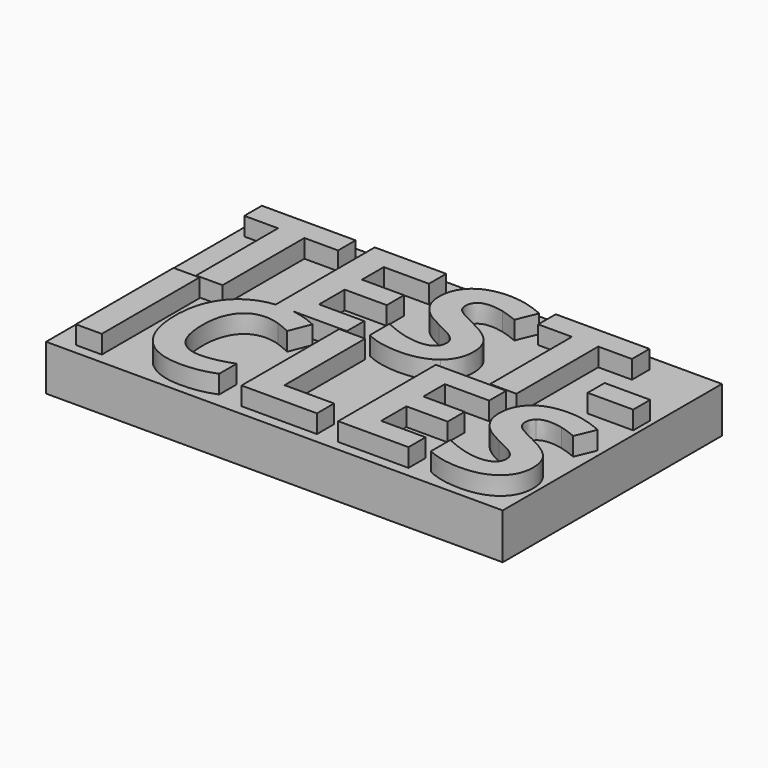
from build123d import *

# Parameters (mm, degrees)
F0_W     = 50
F0_H     = 30
F1_DEPTH = 5
F2_W     = 4.9925617376
F2_H     = 2.3237131806
F2_W_2   = 2.8359868883
F2_H_2   = 13.3721610864
F3_DEPTH = 2


with BuildPart() as f1:
    # F0 (on Top) → F1 (new body)
    with BuildSketch(Plane.XY):
        with Locations((-4.7771148384, -0.2846198264)):
            Rectangle(F0_W, F0_H)
    extrude(amount=F1_DEPTH)

    # F2 (on face) → F3 (join)
    with BuildSketch(Plane.XY.offset(5)):
        Polygon((-25.0170168033, -0.6825822399), (-22.1339462886, -0.6825822399), (-22.1339462886, 10.5134903575), (-18.4445681273, 10.5134903575), (-18.4445681273, 12.9115861624), (-28.7093702695, 12.9115861624), (-28.7093702695, 10.5134903575), (-25.0170168033, 10.5134903575), align=None)
        with BuildLine():
            Line((-14.4154131951, -0.6825822399), (-8.5249013615, -0.6825822399))
            Line((-8.5249013615, -0.6825822399), (-8.5249013615, 1.6976617351))
            Line((-8.5249013615, 1.6976617351), (-13.4698582195, 1.6976617351))
            Line((-13.4698582195, 1.6976617351), (-13.4698582195, 5.2025709883))
            Line((-13.4698582195, 5.2025709883), (-8.8670614329, 5.2025709883))
            Line((-8.8670614329, 5.2025709883), (-8.8670614329, 7.5649631335))
            Line((-8.8670614329, 7.5649631335), (-13.4698582195, 7.5649631335))
            Line((-13.4698582195, 7.5649631335), (-13.4698582195, 10.5491940172))
            Line((-13.4698582195, 10.5491940172), (-8.5249013615, 10.5491940172))
            Line((-8.5249013615, 10.5491940172), (-8.5249013615, 12.9115861624))
            Line((-8.5249013615, 12.9115861624), (-16.3529287343, 12.9115861624))
            Line((-16.3529287343, 12.9115861624), (-16.3529287343, -0.6480378607))
            add(Edge.make_bspline(
                [(-16.3529287343, -0.6480378607), (-15.9510590435, -0.6064876485), (-15.5248850255, -0.6064876485)],
                knots=[0.7770059135, 0.7770059135, 0.7770059135, 1, 1, 1], degree=2))
            add(Edge.make_bspline(
                [(-15.5248850255, -0.6064876485), (-14.9709788021, -0.6064876485), (-14.4154131951, -0.6825822399)],
                knots=[0, 0, 0, 0.2845995164, 0.2845995164, 0.2845995164], degree=2))
        make_face()
        with BuildLine():
            add(Edge.make_bspline(
                [(-14.4154131951, -0.6825822399), (-13.0188826987, -0.8738619307), (-11.6118669969, -1.5459631811)],
                knots=[0.2845995164, 0.2845995164, 0.2845995164, 1, 1, 1], degree=2))
            Line((-14.4154131951, -0.6825822399), (-16.3529287343, -0.6825822399))
            Line((-16.3529287343, -0.6825822399), (-16.3529287343, -0.6480378607))
            add(Edge.make_bspline(
                [(-18.8584134732, -1.4420647967), (-17.7532130694, -0.7928164113), (-16.3529287343, -0.6480378607)],
                knots=[0, 0, 0, 0.7770059135, 0.7770059135, 0.7770059135], degree=2))
            add(Edge.make_bspline(
                [(-21.0402795467, -3.8463612144), (-20.2807969899, -2.2776419449), (-18.8584134732, -1.4420647967)],
                knots=[0, 0, 0, 1, 1, 1], degree=2))
            add(Edge.make_bspline(
                [(-21.7997621035, -7.5018283181), (-21.7997621035, -5.4150804839), (-21.0402795467, -3.8463612144)],
                knots=[0, 0, 0, 1, 1, 1], degree=2))
            add(Edge.make_bspline(
                [(-20.2544565544, -12.5826056536), (-21.7997621035, -10.8119430453), (-21.7997621035, -7.5018283181)],
                knots=[0, 0, 0, 1, 1, 1], degree=2))
            add(Edge.make_bspline(
                [(-15.7912160955, -14.3532682619), (-18.7091510054, -14.3532682619), (-20.2544565544, -12.5826056536)],
                knots=[0, 0, 0, 1, 1, 1], degree=2))
            add(Edge.make_bspline(
                [(-12.1152619864, -13.665490224), (-13.7600758473, -14.3532682619), (-15.7912160955, -14.3532682619)],
                knots=[0, 0, 0, 1, 1, 1], degree=2))
            Line((-12.1152619864, -13.665490224), (-12.1152619864, -11.2889975993))
            add(Edge.make_bspline(
                [(-15.5248850255, -11.9914092125), (-14.117135084, -11.9914092125), (-12.1152619864, -11.2889975993)],
                knots=[0, 0, 0, 1, 1, 1], degree=2))
            add(Edge.make_bspline(
                [(-18.8818271936, -7.5193886084), (-18.8818271936, -11.9914092125), (-15.5248850255, -11.9914092125)],
                knots=[0, 0, 0, 1, 1, 1], degree=2))
            add(Edge.make_bspline(
                [(-18.0038126771, -4.1682998704), (-18.8818271936, -5.371179758), (-18.8818271936, -7.5193886084)],
                knots=[0, 0, 0, 1, 1, 1], degree=2))
            add(Edge.make_bspline(
                [(-15.5248850255, -2.9654199828), (-17.1257981606, -2.9654199828), (-18.0038126771, -4.1682998704)],
                knots=[0, 0, 0, 1, 1, 1], degree=2))
            add(Edge.make_bspline(
                [(-14.0351870625, -3.2302876953), (-14.7932062617, -2.9654199828), (-15.5248850255, -2.9654199828)],
                knots=[0, 0, 0, 1, 1, 1], degree=2))
            add(Edge.make_bspline(
                [(-12.5250020941, -3.8522146445), (-13.2771678632, -3.4951554078), (-14.0351870625, -3.2302876953)],
                knots=[0, 0, 0, 1, 1, 1], degree=2))
            Line((-12.5250020941, -3.8522146445), (-11.6118669969, -1.5459631811))
        make_face()
        with BuildLine():
            Line((-16.3529287343, -0.6825822399), (-14.4154131951, -0.6825822399))
            add(Edge.make_bspline(
                [(-15.5248850255, -0.6064876485), (-14.9709788021, -0.6064876485), (-14.4154131951, -0.6825822399)],
                knots=[0, 0, 0, 0.2845995164, 0.2845995164, 0.2845995164], degree=2))
            add(Edge.make_bspline(
                [(-16.3529287343, -0.6480378607), (-15.9510590435, -0.6064876485), (-15.5248850255, -0.6064876485)],
                knots=[0.7770059135, 0.7770059135, 0.7770059135, 1, 1, 1], degree=2))
            Line((-16.3529287343, -0.6480378607), (-16.3529287343, -0.6825822399))
        make_face()
        with BuildLine():
            add(Edge.make_bspline(
                [(2.3349617745, 3.0930797655), (2.3349617745, 1.2513659898), (1.0094634109, 0.1906697684)],
                knots=[0, 0, 0, 1, 1, 1], degree=2))
            add(Edge.make_bspline(
                [(1.6283268444, 5.3379473644), (2.3349617745, 4.4230410865), (2.3349617745, 3.0930797655)],
                knots=[0, 0, 0, 1, 1, 1], degree=2))
            add(Edge.make_bspline(
                [(-0.9854785706, 7.1662722677), (0.9216919143, 6.2528536423), (1.6283268444, 5.3379473644)],
                knots=[0, 0, 0, 1, 1, 1], degree=2))
            add(Edge.make_bspline(
                [(-2.810828169, 8.1183698577), (-2.4255261755, 7.8535677155), (-0.9854785706, 7.1662722677)],
                knots=[0, 0, 0, 1, 1, 1], degree=2))
            add(Edge.make_bspline(
                [(-3.3731608081, 8.6673136244), (-3.1961301624, 8.3831719999), (-2.810828169, 8.1183698577)],
                knots=[0, 0, 0, 1, 1, 1], degree=2))
            add(Edge.make_bspline(
                [(-3.5501914537, 9.3322942849), (-3.5501914537, 8.9514552489), (-3.3731608081, 8.6673136244)],
                knots=[0, 0, 0, 1, 1, 1], degree=2))
            add(Edge.make_bspline(
                [(-3.1128216233, 10.3260461445), (-3.5501914537, 9.9452071085), (-3.5501914537, 9.3322942849)],
                knots=[0, 0, 0, 1, 1, 1], degree=2))
            add(Edge.make_bspline(
                [(-1.8572429265, 10.7068851805), (-2.6754517929, 10.7068851805), (-3.1128216233, 10.3260461445)],
                knots=[0, 0, 0, 1, 1, 1], degree=2))
            add(Edge.make_bspline(
                [(-0.4588495912, 10.5298545349), (-1.1699474787, 10.7068851805), (-1.8572429265, 10.7068851805)],
                knots=[0, 0, 0, 1, 1, 1], degree=2))
            add(Edge.make_bspline(
                [(1.3412099149, 9.9065281439), (0.2522482964, 10.3528238892), (-0.4588495912, 10.5298545349)],
                knots=[0, 0, 0, 1, 1, 1], degree=2))
            Line((1.3412099149, 9.9065281439), (2.2695050652, 12.1499080904))
            add(Edge.make_bspline(
                [(0.2567112538, 12.855055368), (1.2192224112, 12.6051297506), (2.2695050652, 12.1499080904)],
                knots=[0, 0, 0, 1, 1, 1], degree=2))
            add(Edge.make_bspline(
                [(-1.7650084724, 13.1049809853), (-0.7057999036, 13.1049809853), (0.2567112538, 12.855055368)],
                knots=[0, 0, 0, 1, 1, 1], degree=2))
            add(Edge.make_bspline(
                [(-5.144954917, 12.0740378137), (-3.9221045748, 13.1049809853), (-1.7650084724, 13.1049809853)],
                knots=[0, 0, 0, 1, 1, 1], degree=2))
            add(Edge.make_bspline(
                [(-6.3678052591, 9.2370845259), (-6.3678052591, 11.043094642), (-5.144954917, 12.0740378137)],
                knots=[0, 0, 0, 1, 1, 1], degree=2))
            add(Edge.make_bspline(
                [(-5.995892138, 7.5649631335), (-6.3678052591, 8.282011631), (-6.3678052591, 9.2370845259)],
                knots=[0, 0, 0, 1, 1, 1], degree=2))
            add(Edge.make_bspline(
                [(-5.000652626, 6.3093844367), (-5.6239790169, 6.847914636), (-5.995892138, 7.5649631335)],
                knots=[0, 0, 0, 1, 1, 1], degree=2))
            add(Edge.make_bspline(
                [(-3.1336487581, 5.1847191585), (-4.377326235, 5.7708542373), (-5.000652626, 6.3093844367)],
                knots=[0, 0, 0, 1, 1, 1], degree=2))
            add(Edge.make_bspline(
                [(-1.3707805641, 4.2638622707), (-1.803687437, 4.5509792001), (-3.1336487581, 5.1847191585)],
                knots=[0, 0, 0, 1, 1, 1], degree=2))
            add(Edge.make_bspline(
                [(-0.7147258185, 3.6643383195), (-0.9378736911, 3.9767453412), (-1.3707805641, 4.2638622707)],
                knots=[0, 0, 0, 1, 1, 1], degree=2))
            add(Edge.make_bspline(
                [(-0.4915779458, 2.9532404319), (-0.4915779458, 3.3519312977), (-0.7147258185, 3.6643383195)],
                knots=[0, 0, 0, 1, 1, 1], degree=2))
            add(Edge.make_bspline(
                [(-0.998867443, 1.8746923808), (-0.4915779458, 2.2361919345), (-0.4915779458, 2.9532404319)],
                knots=[0, 0, 0, 1, 1, 1], degree=2))
            add(Edge.make_bspline(
                [(-2.4523039202, 1.513192827), (-1.5061569402, 1.513192827), (-0.998867443, 1.8746923808)],
                knots=[0, 0, 0, 1, 1, 1], degree=2))
            add(Edge.make_bspline(
                [(-4.1973202844, 1.7631184444), (-3.2437350419, 1.513192827), (-2.4523039202, 1.513192827)],
                knots=[0, 0, 0, 1, 1, 1], degree=2))
            add(Edge.make_bspline(
                [(-6.5254964225, 2.6289321903), (-5.1509055269, 2.0130440618), (-4.1973202844, 1.7631184444)],
                knots=[0, 0, 0, 1, 1, 1], degree=2))
            Line((-6.5254964225, 2.6289321903), (-6.5254964225, -0.0488422816))
            add(Edge.make_bspline(
                [(-2.6754517929, -0.8700264529), (-4.85337503, -0.8700264529), (-6.5254964225, -0.0488422816)],
                knots=[0, 0, 0, 1, 1, 1], degree=2))
            add(Edge.make_bspline(
                [(1.0094634109, 0.1906697684), (-0.3160349527, -0.8700264529), (-2.6754517929, -0.8700264529)],
                knots=[0, 0, 0, 1, 1, 1], degree=2))
        make_face()
        Polygon((7.1609064338, -0.6825822399), (10.0439769486, -0.6825822399), (10.0439769486, 10.5134903575), (13.7333551098, 10.5134903575), (13.7333551098, 12.9115861624), (3.4685529676, 12.9115861624), (3.4685529676, 10.5134903575), (7.1609064338, 10.5134903575), align=None)
        with Locations((17.1787582636, 4.421553434)):
            Rectangle(F2_W, F2_H)
        with Locations((-25.9893547047, -7.4828046702)):
            Rectangle(F2_W_2, F2_H_2)
        Polygon((-9.2704949529, -0.796724127), (-9.2704949529, -14.1688852134), (-1.0113050676, -14.1688852134), (-1.0113050676, -11.8275131694), (-6.4345080646, -11.8275131694), (-6.4345080646, -0.796724127), align=None)
        Polygon((1.312506686, -14.1688852134), (9.0126939958, -14.1688852134), (9.0126939958, -11.8275131694), (4.1484935744, -11.8275131694), (4.1484935744, -8.3798428346), (8.6761217645, -8.3798428346), (8.6761217645, -6.0560310809), (4.1484935744, -6.0560310809), (4.1484935744, -3.1205358807), (9.0126939958, -3.1205358807), (9.0126939958, -0.796724127), (1.312506686, -0.796724127), align=None)
        with BuildLine():
            add(Edge.make_bspline(
                [(19.6952039466, -10.4548838086), (19.6952039466, -12.2665204277), (18.3913523896, -13.3098943448)],
                knots=[0, 0, 0, 1, 1, 1], degree=2))
            add(Edge.make_bspline(
                [(19.0001091211, -8.2466772996), (19.6952039466, -9.146642179), (19.6952039466, -10.4548838086)],
                knots=[0, 0, 0, 1, 1, 1], degree=2))
            add(Edge.make_bspline(
                [(16.4289899452, -6.4482108983), (18.3050142955, -7.3467124202), (19.0001091211, -8.2466772996)],
                knots=[0, 0, 0, 1, 1, 1], degree=2))
            add(Edge.make_bspline(
                [(14.633450259, -5.5116620807), (15.0124598586, -5.7721397206), (16.4289899452, -6.4482108983)],
                knots=[0, 0, 0, 1, 1, 1], degree=2))
            add(Edge.make_bspline(
                [(14.0803011136, -4.971683153), (14.2544406593, -5.2511844408), (14.633450259, -5.5116620807)],
                knots=[0, 0, 0, 1, 1, 1], degree=2))
            add(Edge.make_bspline(
                [(13.9061615678, -4.3175623382), (13.9061615678, -4.6921818653), (14.0803011136, -4.971683153)],
                knots=[0, 0, 0, 1, 1, 1], degree=2))
            add(Edge.make_bspline(
                [(14.3363886809, -3.3400395099), (13.9061615678, -3.7146590369), (13.9061615678, -4.3175623382)],
                knots=[0, 0, 0, 1, 1, 1], degree=2))
            add(Edge.make_bspline(
                [(15.5714624341, -2.9654199828), (14.766615794, -2.9654199828), (14.3363886809, -3.3400395099)],
                knots=[0, 0, 0, 1, 1, 1], degree=2))
            add(Edge.make_bspline(
                [(16.94701851, -3.1395595286), (16.2475336118, -2.9654199828), (15.5714624341, -2.9654199828)],
                knots=[0, 0, 0, 1, 1, 1], degree=2))
            add(Edge.make_bspline(
                [(18.7176811183, -3.7527063326), (17.6465034081, -3.3136990744), (16.94701851, -3.1395595286)],
                knots=[0, 0, 0, 1, 1, 1], degree=2))
            Line((18.7176811183, -3.7527063326), (19.6308162154, -1.5459631811))
            add(Edge.make_bspline(
                [(17.6508934807, -0.8523317131), (18.597685801, -1.0981757777), (19.6308162154, -1.5459631811)],
                knots=[0, 0, 0, 1, 1, 1], degree=2))
            add(Edge.make_bspline(
                [(15.6621906008, -0.6064876485), (16.7041011604, -0.6064876485), (17.6508934807, -0.8523317131)],
                knots=[0, 0, 0, 1, 1, 1], degree=2))
            add(Edge.make_bspline(
                [(12.3374422983, -1.620594415), (13.5403221859, -0.6064876485), (15.6621906008, -0.6064876485)],
                knots=[0, 0, 0, 1, 1, 1], degree=2))
            add(Edge.make_bspline(
                [(11.1345624107, -4.41121722), (11.1345624107, -2.6347011816), (12.3374422983, -1.620594415)],
                knots=[0, 0, 0, 1, 1, 1], degree=2))
            add(Edge.make_bspline(
                [(11.5004017926, -6.0560310809), (11.1345624107, -5.3506927527), (11.1345624107, -4.41121722)],
                knots=[0, 0, 0, 1, 1, 1], degree=2))
            add(Edge.make_bspline(
                [(12.4793879785, -7.2911048341), (11.8662411744, -6.7613694092), (11.5004017926, -6.0560310809)],
                knots=[0, 0, 0, 1, 1, 1], degree=2))
            add(Edge.make_bspline(
                [(14.3159016755, -8.3974031249), (13.0925347825, -7.8208402591), (12.4793879785, -7.2911048341)],
                knots=[0, 0, 0, 1, 1, 1], degree=2))
            add(Edge.make_bspline(
                [(16.0499803456, -9.3032214345), (15.6241433051, -9.0207934317), (14.3159016755, -8.3974031249)],
                knots=[0, 0, 0, 1, 1, 1], degree=2))
            add(Edge.make_bspline(
                [(16.6953210152, -9.8929545181), (16.4758173861, -9.5856494373), (16.0499803456, -9.3032214345)],
                knots=[0, 0, 0, 1, 1, 1], degree=2))
            add(Edge.make_bspline(
                [(16.9148246444, -10.5924394162), (16.9148246444, -10.2002595988), (16.6953210152, -9.8929545181)],
                knots=[0, 0, 0, 1, 1, 1], degree=2))
            add(Edge.make_bspline(
                [(16.4158197275, -11.6533736236), (16.9148246444, -11.2977777445), (16.9148246444, -10.5924394162)],
                knots=[0, 0, 0, 1, 1, 1], degree=2))
            add(Edge.make_bspline(
                [(14.9861194231, -12.0089695028), (15.9168148106, -12.0089695028), (16.4158197275, -11.6533736236)],
                knots=[0, 0, 0, 1, 1, 1], degree=2))
            add(Edge.make_bspline(
                [(13.2696010433, -11.7631254382), (14.2076132185, -12.0089695028), (14.9861194231, -12.0089695028)],
                knots=[0, 0, 0, 1, 1, 1], degree=2))
            add(Edge.make_bspline(
                [(10.9794465128, -10.9114513572), (12.3315888682, -11.5172813736), (13.2696010433, -11.7631254382)],
                knots=[0, 0, 0, 1, 1, 1], degree=2))
            Line((10.9794465128, -10.9114513572), (10.9794465128, -13.5454949067))
            add(Edge.make_bspline(
                [(14.766615794, -14.3532682619), (12.6242603737, -14.3532682619), (10.9794465128, -13.5454949067)],
                knots=[0, 0, 0, 1, 1, 1], degree=2))
            add(Edge.make_bspline(
                [(18.3913523896, -13.3098943448), (17.0875008326, -14.3532682619), (14.766615794, -14.3532682619)],
                knots=[0, 0, 0, 1, 1, 1], degree=2))
        make_face()
    extrude(amount=F3_DEPTH)


solid = f1.part
